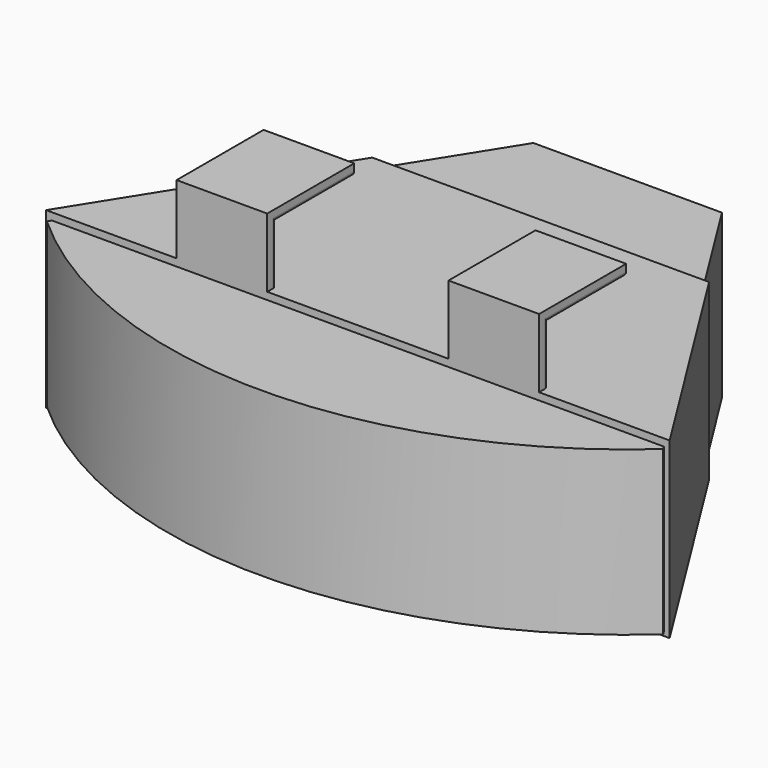
from build123d import *

# Parameters (mm, degrees)
F1_DEPTH      = 45
F3_DEPTH      = 46
F3_DEPTH_BACK = 2
F6_START      = 25
F6_DEPTH      = 25
F8_R          = 1


with BuildPart() as f1:
    # F0 (on Top) → F1 (new body)
    with BuildSketch(Plane.XY):
        with BuildLine():
            Line((85, -94.0212741883), (26, 0))
            Line((26, 0), (-26, 0))
            Line((-26, 0), (-85, -94.0212741883))
            ThreePointArc((-85, -94.0212741883), (0, -126.7477810457), (85, -94.0212741883))
        make_face()
    extrude(amount=-F1_DEPTH)


with BuildPart() as f3:
    # F2 (on Top) → F3 (new body, two sides)
    with BuildSketch(Plane.XY) as f3_sk:
        Polygon((-46.4530441731, -30), (-86, -93.0212741883), (86, -93.0212741883), (46.4530441731, -30), align=None)
    extrude(amount=-F3_DEPTH)
    extrude(f3_sk.sketch, amount=F3_DEPTH_BACK)

    # F4: cut F1
    add(f1.part, mode=Mode.SUBTRACT)



with BuildPart() as f6:
    # F5 (on Right) → F6 (new body)
    with BuildSketch(Plane.YZ.offset(F6_START)):
        Polygon((-90.0212741883, 18), (-63.0212741883, 18), (-63.0212741883, 21), (-93.0212741883, 21), (-93.0212741883, 2), (-90.0212741883, 2), align=None)
    extrude(amount=F6_DEPTH)


with BuildPart() as f3_1:
    add(f3.part)

    add(f6.part)  # F7 merges F6
    # F7: F6 across plane
    add(f6.part.mirror(Plane.YZ))

    # F8
    f8_edges = [f3_1.edges().sort_by_distance(p)[0] for p in [
        (-37.5, -63.021274, 18),
        (37.5, -63.021274, 18),
        (50, -76.521274, 18),
        (25, -76.521274, 18),
        (-25, -76.521274, 18),
        (-50, -76.521274, 18),
        (-50, -90.021274, 10),
        (-25, -90.021274, 10),
        (25, -90.021274, 10),
        (50, -90.021274, 10),
    ]]
    fillet(f8_edges, radius=F8_R)


solid = Compound([f1.part, f3_1.part])
